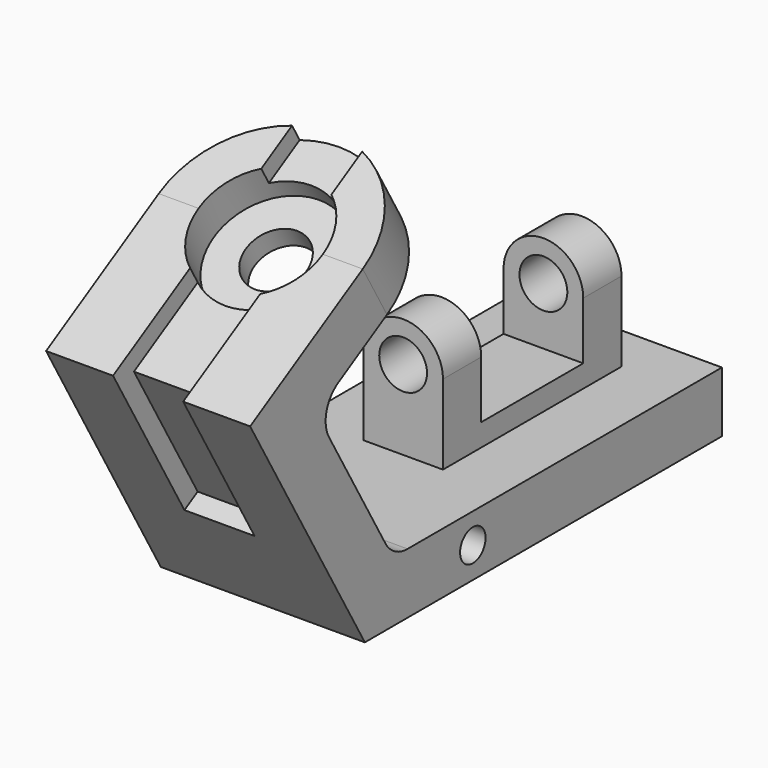
from build123d import *

# Parameters (mm, degrees)
F1_DEPTH  = 32
F2_R      = 32
F3_DEPTH  = 19
F4_R      = 9.5
F5_DEPTH  = 19
F6_R      = 19.5
F6_R_2    = 9.5
F7_DEPTH  = 12
F9_DEPTH  = 11
F10_R     = 10
F12_DEPTH = 12.5
F13_R     = 12.5
F14_DEPTH = 15
F15_R     = 12.5
F16_DEPTH = 15
F17_R     = 7.5
F18_DEPTH = 70
F20_D     = 10
F21_SCALE = 0.5


with BuildPart() as f1:
    # F0 (on Right) → F1 (new body, symmetric)
    with BuildSketch(Plane.YZ):
        Polygon((-140, 0), (0, 0), (0, 19), (-129.0303448854, 19), (-159.0455173281, 70.9878036687), (-131.332704407, 86.9878036687), (-140.832704407, 103.4422863406), (-185, 77.9422863406), align=None)
    extrude(amount=F1_DEPTH, both=True)

    # F2 (on face) → F3 (join, through all)
    with BuildSketch(Plane(origin=(0, -80, 138.5640646055), x_dir=(1, 0, 0), z_dir=(0, -0.5, 0.8660254038))):
        with Locations((0, -70.2435565298)):
            Circle(F2_R)
    extrude(amount=-F3_DEPTH)

    # F4 (on face) → F5 (cut, through all)
    with BuildSketch(Plane(origin=(0, -80, 138.5640646055), x_dir=(1, 0, 0), z_dir=(0, -0.5, 0.8660254038))):
        with Locations((0, -70.2435565298)):
            Circle(F4_R)
    extrude(amount=-F5_DEPTH, mode=Mode.SUBTRACT)

    # F6 (on face) → F7 (cut)
    with BuildSketch(Plane(origin=(0, -80, 138.5640646055), x_dir=(1, 0, 0), z_dir=(0, -0.5, 0.8660254038))):
        with Locations((0, -70.2435565298)):
            Circle(F6_R)
        with Locations((0, -70.2435565298)):
            Circle(F6_R_2, mode=Mode.SUBTRACT)
    extrude(amount=-F7_DEPTH, mode=Mode.SUBTRACT)

    # F8 (on Right) → F9 (cut, symmetric)
    with BuildSketch(Plane.YZ):
        Polygon((-176.8038475773, 75.7461339179), (-102.4204401346, 118.6914142282), (-139.8535072803, 145.4511135817), (-219.7459042072, 72.3169818521), (-158.4675441277, 28.5975767315), (-151.8038475773, 32.4448637287), align=None)
    extrude(amount=F9_DEPTH, both=True, mode=Mode.SUBTRACT)

    # F10
    f10_edges = [f1.edges().sort_by_distance(p)[0] for p in [
        (0, -159.045517, 70.987804),
        (0, -129.030345, 19),
    ]]
    fillet(f10_edges, radius=F10_R)

    # F11 (on Right) → F12 (join, symmetric)
    with BuildSketch(Plane.YZ):
        Polygon((-85, 44), (-85, 19), (-15, 19), (-15, 44), (-30, 44), (-30, 26), (-70, 26), (-70, 44), align=None)
    extrude(amount=F12_DEPTH, both=True)

    # F13 (on face) → F14 (join, through all)
    with BuildSketch(Plane.XZ.offset(85)):
        with Locations((0, 44)):
            Circle(F13_R)
    extrude(amount=-F14_DEPTH)

    # F15 (on face) → F16 (join, through all)
    with BuildSketch(Plane.XZ.offset(30)):
        with Locations((0, 44)):
            Circle(F15_R)
    extrude(amount=-F16_DEPTH)

    # F17 (on face) → F18 (cut, through all)
    with BuildSketch(Plane(origin=(0, -15, 0), x_dir=(-1, 0, 0), z_dir=(0, 1, 0))):
        with Locations((0, 44)):
            Circle(F17_R)
    extrude(amount=-F18_DEPTH, mode=Mode.SUBTRACT)

    # F20 (through all)
    with Locations(Plane.YZ.offset(32)):
        with Locations((-97.6659357548, 9.6274418756)):
            Hole(F20_D / 2)


with BuildPart() as f1_1:
    # F21: moved
    add(f1.part.scale(F21_SCALE))


solid = f1_1.part
